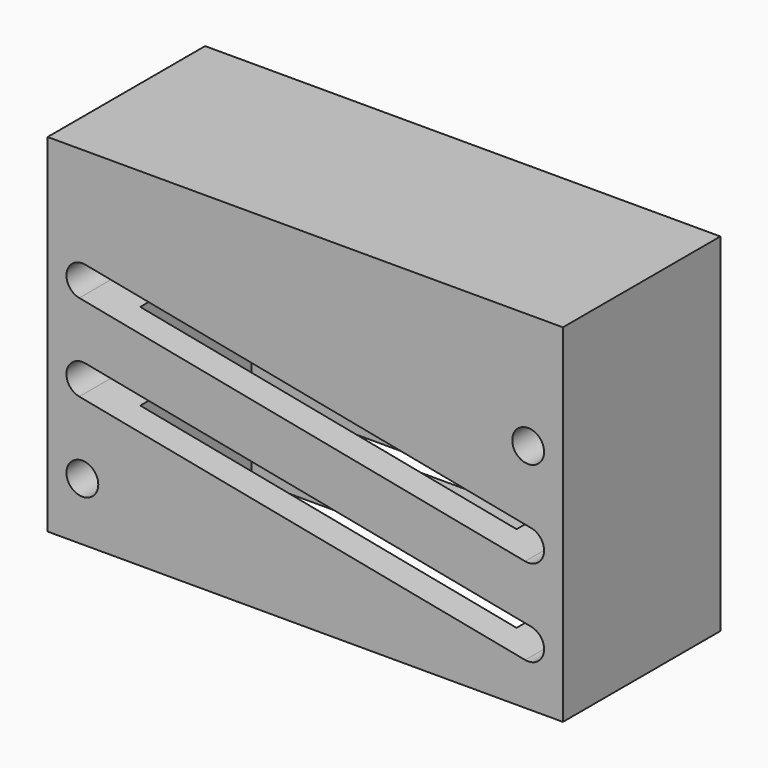
from build123d import *

# Parameters (mm, degrees)
F1_DEPTH      = 24
F3_START      = 24
F2_W          = 89
F2_H          = 60
F3_DEPTH      = 5
F4_DEPTH      = 5
F5_R          = 2.75
F6_DEPTH      = 29.001
F6_DEPTH_BACK = 5.001
F7_W          = 77
F7_H          = 5.5
F8_DEPTH      = 5
F8_DEPTH_BACK = 2
F10_START     = 22
F10_DEPTH     = 7


with BuildPart() as f1:
    # F0 (on Front) → F1 (new body)
    with BuildSketch(Plane.XZ):
        Polygon((12, 60), (-77, 60), (-77, 0), (-65, 0), (-65, 55), (0, 55), (0, 0), (12, 0), align=None)
    extrude(amount=F1_DEPTH)

    # F2 (on Front) → F3 (join)
    with BuildSketch(Plane.XZ.offset(F3_START)):
        with Locations((-32.5, 30)):
            Rectangle(F2_W, F2_H)
    extrude(amount=F3_DEPTH)

    # F2 (on Front) → F4 (join)
    with BuildSketch(Plane.XZ):
        with Locations((-32.5, 30)):
            Rectangle(F2_W, F2_H)
    extrude(amount=-F4_DEPTH)

    # F5 (on Front) → F6 (cut, two sides)
    with BuildSketch(Plane.XZ) as f6_sk:
        with Locations((-71, 25)):
            Circle(F5_R)
        with Locations((-71, 10)):
            Circle(F5_R)
        with Locations((6, 10)):
            Circle(F5_R)
        with Locations((6, 25)):
            Circle(F5_R)
        with Locations((6, 40)):
            Circle(F5_R)
        with Locations((-71, 40)):
            Circle(F5_R)
    extrude(amount=F6_DEPTH, mode=Mode.SUBTRACT)
    extrude(f6_sk.sketch, amount=-F6_DEPTH_BACK, mode=Mode.SUBTRACT)

    # F7 (on Front) → F8 (cut, two sides)
    with BuildSketch(Plane.XZ) as f8_sk:
        with Locations((-32.5, 40)):
            Rectangle(F7_W, F7_H)
        with Locations((-32.5, 25)):
            Rectangle(F7_W, F7_H)
        with Locations((-32.5, 10)):
            Rectangle(F7_W, F7_H)
    extrude(amount=-F8_DEPTH, mode=Mode.SUBTRACT)
    extrude(f8_sk.sketch, amount=F8_DEPTH_BACK, mode=Mode.SUBTRACT)

    # F9 (on Front) → F10 (cut)
    with BuildSketch(Plane.XZ.offset(F10_START)):
        Polygon((-70.4741701855, 27.6992597145), (-71.5258298145, 22.3007402855), (5.4741701855, 7.3007402855), (6.5258298145, 12.6992597145), align=None)
        Polygon((-70.4741701855, 42.6992597145), (-71.5258298145, 37.3007402855), (5.4741701855, 22.3007402855), (6.5258298145, 27.6992597145), align=None)
    extrude(amount=F10_DEPTH, mode=Mode.SUBTRACT)


solid = f1.part
